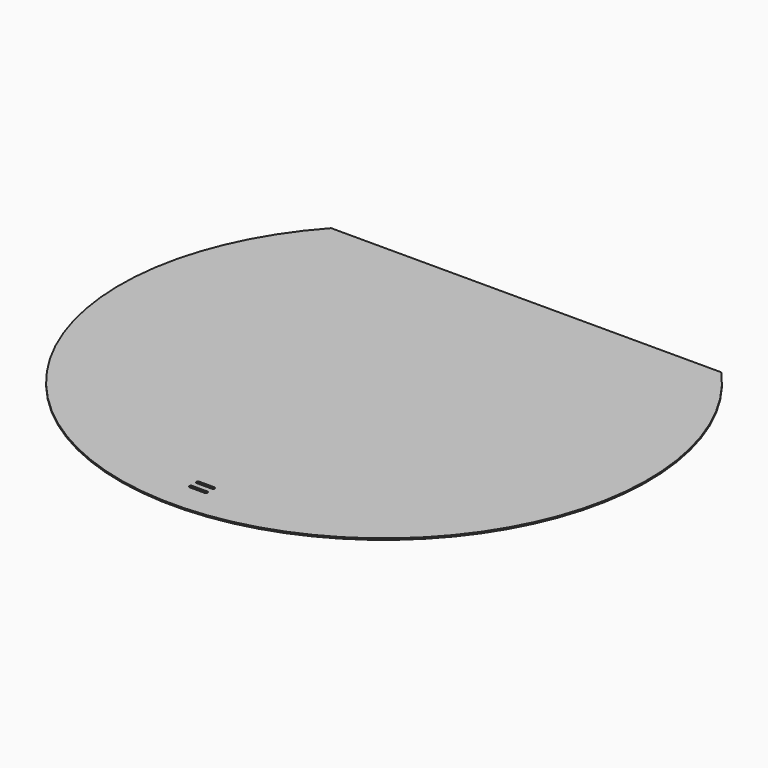
from build123d import *

# Parameters (mm, degrees)
F1_DEPTH = 4
F3_DEPTH = 25


with BuildPart() as f1:
    # F0 (on Top) → F1 (new body)
    with BuildSketch(Plane.XY):
        with BuildLine():
            Line((543.323108, 495), (-543.323108, 495))
            ThreePointArc((-543.323108, 495), (0, -735), (543.323108, 495))
        make_face()
    extrude(amount=F1_DEPTH)

    # F2 (on face) → F3 (cut)
    with BuildSketch(Plane.XY.offset(4)):
        with BuildLine():
            Line((21, -616.5), (-21, -616.5))
            ThreePointArc((-21, -616.5), (-25.5, -621), (-21, -625.5))
            Line((-21, -625.5), (21, -625.5))
            ThreePointArc((21, -625.5), (25.5, -621), (21, -616.5))
        make_face()
        with BuildLine():
            Line((21, -641.5), (-21, -641.5))
            ThreePointArc((-21, -641.5), (-25.5, -646), (-21, -650.5))
            Line((-21, -650.5), (21, -650.5))
            ThreePointArc((21, -650.5), (25.5, -646), (21, -641.5))
        make_face()
    extrude(amount=-F3_DEPTH, mode=Mode.SUBTRACT)


solid = f1.part
